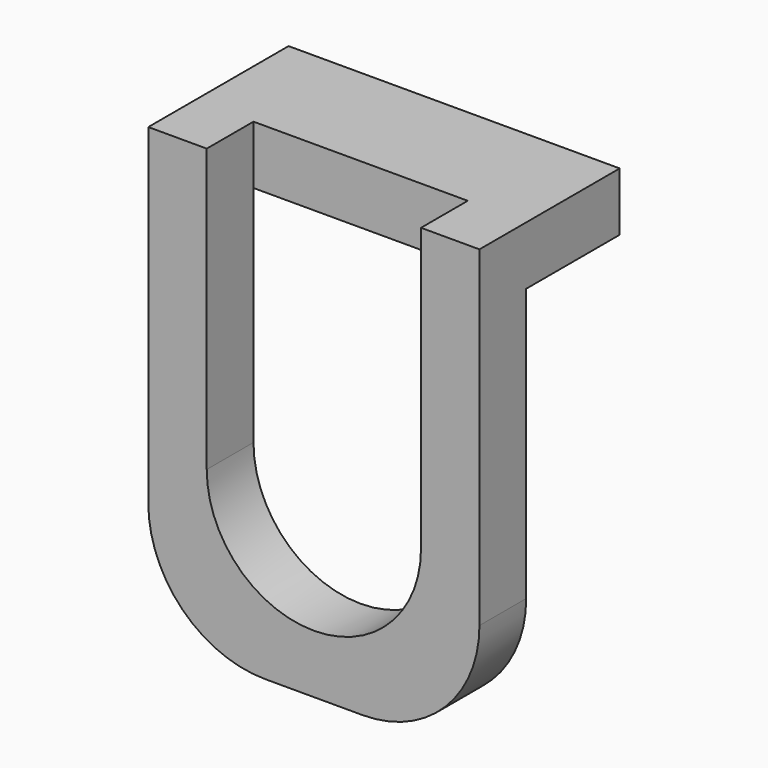
from build123d import *

# Parameters (mm, degrees)
F0_W          = 53.975
F0_H          = 19.05
F1_DEPTH      = 9.525
F2_W          = 53.975
F2_H          = 9.525
F3_DEPTH      = 9.525
F3_DEPTH_BACK = 63.5
F5_DEPTH      = 9.525
F6_R          = 19.05


with BuildPart() as f1:
    # F0 (on Top) → F1 (new body)
    with BuildSketch(Plane.XY):
        with Locations((0, 9.525)):
            Rectangle(F0_W, F0_H)
    extrude(amount=F1_DEPTH)

    # F2 (on Top) → F3 (join, two sides)
    with BuildSketch(Plane.XY) as f3_sk:
        with Locations((0, -4.7625)):
            Rectangle(F2_W, F2_H)
    extrude(amount=F3_DEPTH)
    extrude(f3_sk.sketch, amount=-F3_DEPTH_BACK)

    # F4 (on face) → F5 (cut)
    with BuildSketch(Plane.XZ.offset(9.525)):
        with BuildLine():
            Line((17.4625, 9.525), (-17.4625, 9.525))
            Line((-17.4625, 9.525), (-17.4625, -36.5125))
            ThreePointArc((-17.4625, -36.5125), (0, -53.975), (17.4625, -36.5125))
            Line((17.4625, -36.5125), (17.4625, 9.525))
        make_face()
    extrude(amount=-F5_DEPTH, mode=Mode.SUBTRACT)

    # F6
    f6_edges = [f1.edges().sort_by_distance(p)[0] for p in [
        (26.9875, -4.7625, -63.5),
        (-26.9875, -4.7625, -63.5),
    ]]
    fillet(f6_edges, radius=F6_R)


solid = f1.part
